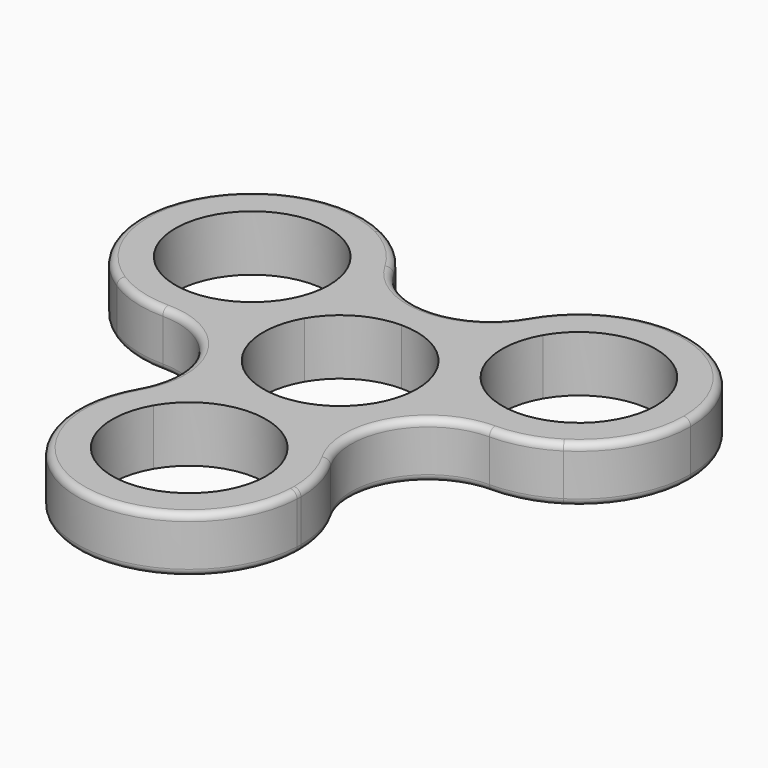
from build123d import *

# Parameters (mm, degrees)
F1_DEPTH = 8
F2_R     = 1


with BuildPart() as f1:
    # F0 (on Top) → F1 (new body)
    with BuildSketch(Plane.XY):
        with BuildLine():
            ThreePointArc((15.9852339604, -27.6872373903), (12.314619268, -25.0541291746), (9.526279558, -21.5000002015))
            ThreePointArc((9.526279558, -21.5000002015), (10.6251841193, -24.1529906163), (11, -27))
            ThreePointArc((11, -27), (-2.8470095887, -37.6251840644), (-9.5262793458, -21.499999834))
            ThreePointArc((-9.5262793458, -21.499999834), (-12.3146191148, -25.0541290278), (-15.9852339604, -27.6872373903))
            ThreePointArc((-15.9852339604, -27.6872373903), (0, -43), (15.9852339604, -27.6872373903))
        make_face()
        with BuildLine():
            ThreePointArc((-7.3826859022, -13.5), (-7.386377838, -13.1563019979), (-7.3974519418, -12.8127626097))
            ThreePointArc((-7.3974519418, -12.8127626097), (-11.0680667134, -15.4458709014), (-13.856406454, -18.9999999886))
            ThreePointArc((-13.856406454, -18.9999999886), (-15.5402026716, -23.1918375919), (-15.9852339604, -27.6872373903))
            ThreePointArc((-15.9852339604, -27.6872373903), (-12.3146191148, -25.0541290278), (-9.5262793458, -21.499999834))
            ThreePointArc((-9.5262793458, -21.499999834), (-7.9278726567, -17.6411046291), (-7.3826859022, -13.5))
        make_face()
        with BuildLine():
            ThreePointArc((-7.3974519418, -12.8127626097), (-8.0203943864, -9.0278641137), (-9.5262793701, -5.500000124))
            ThreePointArc((-9.5262793701, -5.500000124), (-11.8285567586, -2.4319333335), (-14.7949038835, 0))
            ThreePointArc((-14.7949038835, 0), (-18.9105499472, -1.8622914957), (-23.3826859022, -2.5))
            ThreePointArc((-23.3826859022, -2.5), (-15.6045113091, -5.7218254069), (-12.3826859022, -13.5))
            ThreePointArc((-12.3826859022, -13.5), (-12.7575018113, -16.3470094898), (-13.856406454, -18.9999999886))
            ThreePointArc((-13.856406454, -18.9999999886), (-11.0680667134, -15.4458709014), (-7.3974519418, -12.8127626097))
        make_face()
        with BuildLine():
            ThreePointArc((-23.3826859022, -2.5), (-18.9105499472, -1.8622914957), (-14.7949038835, 0))
            ThreePointArc((-14.7949038835, 0), (-18.9105499472, 1.8622914957), (-23.3826859022, 2.5))
            ThreePointArc((-23.3826859022, 2.5), (-27.8548218572, 1.8622914957), (-31.9704679208, 0))
            ThreePointArc((-31.9704679208, 0), (-27.8548218572, -1.8622914957), (-23.3826859022, -2.5))
        make_face()
        with BuildLine():
            ThreePointArc((-23.3826859022, 2.5), (-32.9089654251, 18.9999998592), (-13.8564066231, 19.0000002816))
            ThreePointArc((-13.8564066231, 19.0000002816), (-15.5402027118, 23.1918377562), (-15.9852339604, 27.6872373903))
            ThreePointArc((-15.9852339604, 27.6872373903), (-37.2390923627, 21.5), (-31.9704679208, 0))
            ThreePointArc((-31.9704679208, 0), (-27.8548218572, 1.8622914957), (-23.3826859022, 2.5))
        make_face()
        with BuildLine():
            ThreePointArc((-13.8564066231, 19.0000002816), (-11.0680668355, 15.4458710184), (-7.3974519418, 12.8127626097))
            ThreePointArc((-7.3974519418, 12.8127626097), (-7.386377838, 13.1563019979), (-7.3826859022, 13.5))
            ThreePointArc((-7.3826859022, 13.5), (-7.9278727276, 17.6411048934), (-9.5262796194, 21.5000003079))
            ThreePointArc((-9.5262796194, 21.5000003079), (-12.3146193124, 25.0541292171), (-15.9852339604, 27.6872373903))
            ThreePointArc((-15.9852339604, 27.6872373903), (-15.5402027118, 23.1918377562), (-13.8564066231, 19.0000002816))
        make_face()
        with BuildLine():
            ThreePointArc((-7.3974519418, 12.8127626097), (-3.8081623856, 11.4597973229), (3.3e-08, 11))
            ThreePointArc((3.3e-08, 11), (3.8081624177, 11.4597973308), (7.3974519418, 12.8127626097))
            ThreePointArc((7.3974519418, 12.8127626097), (7.8424832108, 17.3081623274), (9.5262793652, 21.4999998676))
            ThreePointArc((9.5262793652, 21.4999998676), (-2.542e-07, 16), (-9.5262796194, 21.5000003079))
            ThreePointArc((-9.5262796194, 21.5000003079), (-7.9278727276, 17.6411048934), (-7.3826859022, 13.5))
            ThreePointArc((-7.3826859022, 13.5), (-7.386377838, 13.1563019979), (-7.3974519418, 12.8127626097))
        make_face()
        with BuildLine():
            ThreePointArc((9.5262793652, 21.4999998676), (7.8424832108, 17.3081623274), (7.3974519418, 12.8127626097))
            ThreePointArc((7.3974519418, 12.8127626097), (11.0680667622, 15.4458709481), (13.8564065215, 19.0000001056))
            ThreePointArc((13.8564065215, 19.0000001056), (15.4548132364, 22.8588953372), (16, 27))
            ThreePointArc((16, 27), (15.9963080642, 27.3436980021), (15.9852339604, 27.6872373903))
            ThreePointArc((15.9852339604, 27.6872373903), (12.3146191288, 25.0541290412), (9.5262793652, 21.4999998676))
        make_face()
        with BuildLine():
            ThreePointArc((16, 27), (15.4548132364, 22.8588953372), (13.8564065215, 19.0000001056))
            ThreePointArc((13.8564065215, 19.0000001056), (26.2296954572, 24.1251840734), (34.3826859022, 13.5))
            ThreePointArc((34.3826859022, 13.5), (31.1608604876, 5.7218253993), (23.3826858806, 2.5))
            ThreePointArc((23.3826858806, 2.5), (27.8548218468, 1.8622914987), (31.9704679208, 0))
            ThreePointArc((31.9704679208, 0), (37.4077440535, 5.799497169), (39.3826859022, 13.5))
            ThreePointArc((39.3826859022, 13.5), (31.6784911353, 27.1813601493), (15.9852339604, 27.6872373903))
            ThreePointArc((15.9852339604, 27.6872373903), (15.9963080642, 27.3436980021), (16, 27))
        make_face()
        with BuildLine():
            ThreePointArc((23.3826858806, 2.5), (18.9105499368, 1.8622914927), (14.7949038835, 0))
            ThreePointArc((14.7949038835, 0), (18.910549937, -1.8622914928), (23.3826858809, -2.5))
            ThreePointArc((23.3826858809, -2.5), (27.854821847, -1.8622914987), (31.9704679208, 0))
            ThreePointArc((31.9704679208, 0), (27.8548218468, 1.8622914987), (23.3826858806, 2.5))
        make_face()
        with BuildLine():
            ThreePointArc((14.7949038835, 0), (11.8285567738, -2.4319333177), (9.526279392, -5.5000000859))
            ThreePointArc((9.526279392, -5.5000000859), (8.0203943926, -9.0278640926), (7.3974519418, -12.8127626097))
            ThreePointArc((7.3974519418, -12.8127626097), (11.0680666727, -15.4458708624), (13.8564063976, -18.9999998909))
            ThreePointArc((13.8564063976, -18.9999998909), (13.8564064867, -7.9999999547), (23.3826858809, -2.5))
            ThreePointArc((23.3826858809, -2.5), (18.910549937, -1.8622914928), (14.7949038835, 0))
        make_face()
        with BuildLine():
            ThreePointArc((13.8564063976, -18.9999998909), (11.0680666727, -15.4458708624), (7.3974519418, -12.8127626097))
            ThreePointArc((7.3974519418, -12.8127626097), (7.8424832567, -17.3081625147), (9.526279558, -21.5000002015))
            ThreePointArc((9.526279558, -21.5000002015), (12.314619268, -25.0541291746), (15.9852339604, -27.6872373903))
            ThreePointArc((15.9852339604, -27.6872373903), (15.9963080642, -27.3436980021), (16, -27))
            ThreePointArc((16, -27), (15.4548132043, -22.8588952175), (13.8564063976, -18.9999998909))
        make_face()
        with BuildLine():
            ThreePointArc((7.3974519418, -12.8127626097), (3.8081624017, -11.4597973269), (0, -11))
            ThreePointArc((0, -11), (-3.8081624017, -11.4597973269), (-7.3974519418, -12.8127626097))
            ThreePointArc((-7.3974519418, -12.8127626097), (-7.386377838, -13.1563019979), (-7.3826859022, -13.5))
            ThreePointArc((-7.3826859022, -13.5), (-7.9278726567, -17.6411046291), (-9.5262793458, -21.499999834))
            ThreePointArc((-9.5262793458, -21.499999834), (2.122e-07, -16), (9.526279558, -21.5000002015))
            ThreePointArc((9.526279558, -21.5000002015), (7.8424832567, -17.3081625147), (7.3974519418, -12.8127626097))
        make_face()
        with BuildLine():
            ThreePointArc((-14.7949038835, 0), (-11.8285569219, 2.4319331631), (-9.5262796061, 5.4999997152))
            ThreePointArc((-9.5262796061, 5.4999997152), (-8.0203944524, 9.0278638871), (-7.3974519418, 12.8127626097))
            ThreePointArc((-7.3974519418, 12.8127626097), (-11.0680668355, 15.4458710184), (-13.8564066231, 19.0000002816))
            ThreePointArc((-13.8564066231, 19.0000002816), (-12.7575018551, 16.3470096532), (-12.3826859022, 13.5))
            ThreePointArc((-12.3826859022, 13.5), (-15.6045113091, 5.7218254069), (-23.3826859022, 2.5))
            ThreePointArc((-23.3826859022, 2.5), (-18.9105499472, 1.8622914957), (-14.7949038835, 0))
        make_face()
        with BuildLine():
            ThreePointArc((-9.5262793701, -5.500000124), (-11, -2.36e-07), (-9.5262796061, 5.4999997152))
            ThreePointArc((-9.5262796061, 5.4999997152), (-11.8285569219, 2.4319331631), (-14.7949038835, 0))
            ThreePointArc((-14.7949038835, 0), (-11.8285567586, -2.4319333335), (-9.5262793701, -5.500000124))
        make_face()
        with BuildLine():
            ThreePointArc((-9.5262796061, 5.4999997152), (-5.5000001281, 9.5262793677), (3.3e-08, 11))
            ThreePointArc((3.3e-08, 11), (-3.8081623856, 11.4597973229), (-7.3974519418, 12.8127626097))
            ThreePointArc((-7.3974519418, 12.8127626097), (-8.0203944524, 9.0278638871), (-9.5262796061, 5.4999997152))
        make_face()
        with BuildLine():
            ThreePointArc((3.3e-08, 11), (5.5000000405, 9.5262794182), (9.5262794719, 5.4999999476))
            ThreePointArc((9.5262794719, 5.4999999476), (8.0203944149, 9.027864016), (7.3974519418, 12.8127626097))
            ThreePointArc((7.3974519418, 12.8127626097), (3.8081624177, 11.4597973308), (3.3e-08, 11))
        make_face()
        with BuildLine():
            ThreePointArc((9.5262794719, 5.4999999476), (10.625184097, 2.8470094669), (11, 0))
            ThreePointArc((11, 0), (10.6251840763, -2.847009544), (9.526279392, -5.5000000859))
            ThreePointArc((9.526279392, -5.5000000859), (11.8285567738, -2.4319333177), (14.7949038835, 0))
            ThreePointArc((14.7949038835, 0), (11.828556829, 2.43193326), (9.5262794719, 5.4999999476))
        make_face()
        with BuildLine():
            ThreePointArc((7.3974519418, -12.8127626097), (8.0203943926, -9.0278640926), (9.526279392, -5.5000000859))
            ThreePointArc((9.526279392, -5.5000000859), (5.4999999571, -9.5262794664), (0, -11))
            ThreePointArc((0, -11), (3.8081624017, -11.4597973269), (7.3974519418, -12.8127626097))
        make_face()
        with BuildLine():
            ThreePointArc((-7.3974519418, -12.8127626097), (-3.8081624017, -11.4597973269), (0, -11))
            ThreePointArc((0, -11), (-5.499999938, -9.5262794774), (-9.5262793701, -5.500000124))
            ThreePointArc((-9.5262793701, -5.500000124), (-8.0203943864, -9.0278641137), (-7.3974519418, -12.8127626097))
        make_face()
        with BuildLine():
            ThreePointArc((7.3974519418, 12.8127626097), (8.0203944149, 9.027864016), (9.5262794719, 5.4999999476))
            ThreePointArc((9.5262794719, 5.4999999476), (11.828556829, 2.43193326), (14.7949038835, 0))
            ThreePointArc((14.7949038835, 0), (18.9105499368, 1.8622914927), (23.3826858806, 2.5))
            ThreePointArc((23.3826858806, 2.5), (13.8564064247, 8.0000000621), (13.8564065215, 19.0000001056))
            ThreePointArc((13.8564065215, 19.0000001056), (11.0680667622, 15.4458709481), (7.3974519418, 12.8127626097))
        make_face()
    extrude(amount=F1_DEPTH)

    # F2
    f2_edges = [f1.edges().sort_by_distance(p)[0] for p in [
        (-13.856406, -19, 4),
        (13.856406, -19, 4),
        (0, -43, 0),
        (0, -43, 8),
    ]]
    fillet(f2_edges, radius=F2_R)


solid = f1.part
